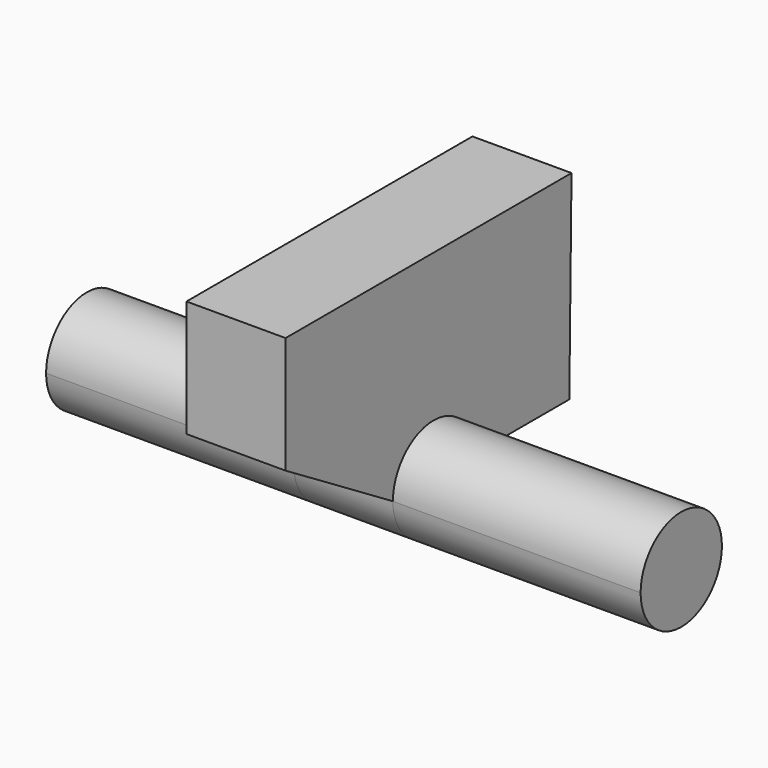
from build123d import *

# Parameters (mm, degrees)
F1_DEPTH = 19.05
F2_DEPTH = 3.175


with BuildPart() as f1:
    # F0 (on Right) → F1 (new body, symmetric)
    with BuildSketch(Plane.YZ):
        with BuildLine():
            ThreePointArc((-49.9293961003, 40.3302423656), (-46.67250067, 37.0733469353), (-43.4156052396, 40.3302423656))
            ThreePointArc((-43.4156052396, 40.3302423656), (-46.67250067, 43.5679623749), (-49.9293961003, 40.3302423656))
        make_face()
    extrude(amount=F1_DEPTH, both=True)


with BuildPart() as f2:
    # F0 (on Right) → F2 (new body, symmetric)
    with BuildSketch(Plane.YZ):
        with BuildLine():
            ThreePointArc((-49.9293961003, 40.3302423656), (-46.67250067, 43.5679623749), (-43.4156052396, 40.3302423656))
            ThreePointArc((-43.4156052396, 40.3302423656), (-46.67250067, 43.5871377959), (-49.9293961003, 40.3302423656))
        make_face()
        with BuildLine():
            ThreePointArc((-49.9293961003, 40.3302423656), (-46.67250067, 37.0733469353), (-43.4156052396, 40.3302423656))
            ThreePointArc((-43.4156052396, 40.3302423656), (-46.67250067, 43.5679623749), (-49.9293961003, 40.3302423656))
        make_face()
        with BuildLine():
            ThreePointArc((-49.9293961003, 40.3302423656), (-46.67250067, 43.5871377959), (-43.4156052396, 40.3302423656))
            Line((-43.4156052396, 40.3302423656), (-35.7956052396, 40.3302423656))
            Line((-35.7956052396, 40.3302423656), (-35.6199205491, 53.0302423656))
            Line((-35.6199205491, 53.0302423656), (-58.525608423, 53.0302423656))
            Line((-58.525608423, 53.0302423656), (-58.525608423, 45.5507487059))
            Line((-58.525608423, 45.5507487059), (-49.9293961003, 40.3302423656))
        make_face()
    extrude(amount=F2_DEPTH, both=True)


solid = Compound([f1.part, f2.part])
